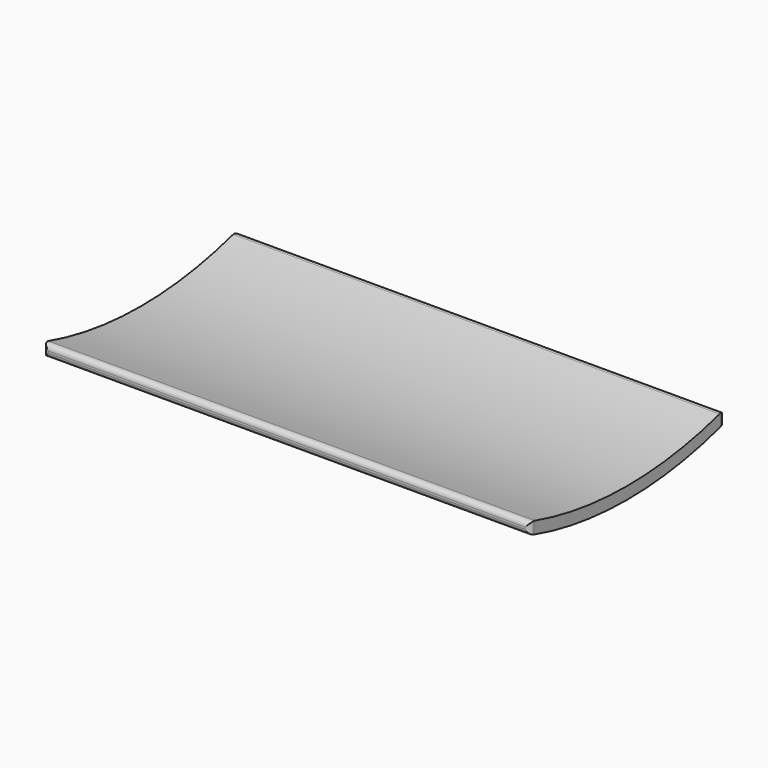
from build123d import *

# Parameters (mm, degrees)
F1_DEPTH      = 254
F1_DEPTH_BACK = 254
F2_R          = 5.08


with BuildPart() as f1:
    # F0 (on Right) → F1 (new body, two sides)
    with BuildSketch(Plane.YZ) as f1_sk:
        with BuildLine():
            ThreePointArc((-127, 6.35), (0, -12.7), (127, 6.35))
            Line((127, 6.35), (127, 19.05))
            ThreePointArc((127, 19.05), (0, 0), (-127, 19.05))
            Line((-127, 19.05), (-127, 6.35))
        make_face()
    extrude(amount=F1_DEPTH)
    extrude(f1_sk.sketch, amount=-F1_DEPTH_BACK)

    # F2
    f2_edges = [f1.edges().sort_by_distance(p)[0] for p in [
        (0, 127, 6.35),
        (254, 127, 12.7),
        (0, 127, 19.05),
        (-254, 127, 12.7),
        (254, -127, 12.7),
        (0, -127, 6.35),
        (-254, -127, 12.7),
        (0, -127, 19.05),
    ]]
    fillet(f2_edges, radius=F2_R)


solid = f1.part
